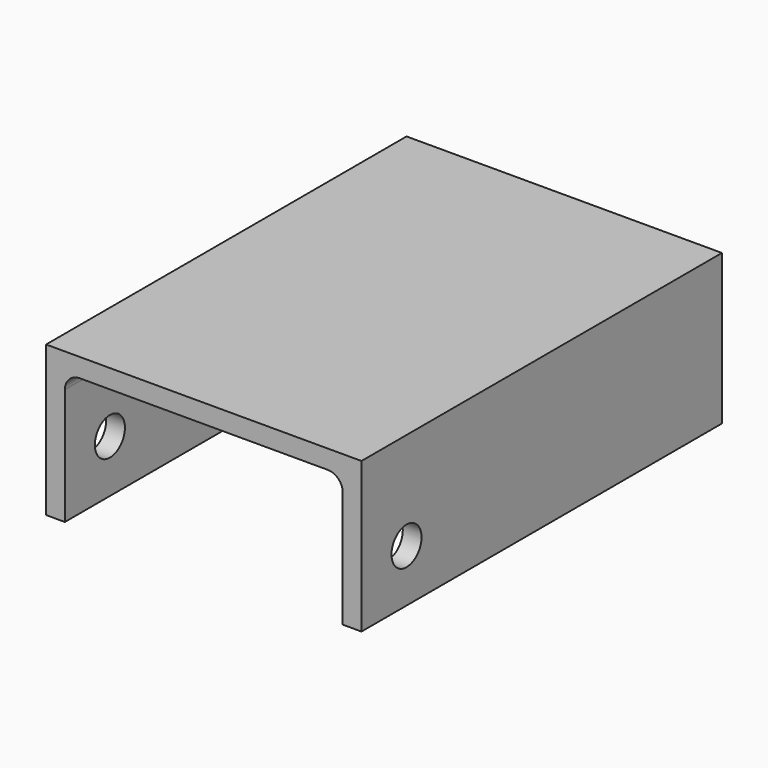
from build123d import *

# Parameters (mm, degrees)
F1_DEPTH = 152.4
F2_R     = 5.08
F3_R     = 6.35
F4_DEPTH = 106.681


with BuildPart() as f1:
    # F0 (on Front) → F1 (new body)
    with BuildSketch(Plane.XZ):
        Polygon((-46.99, -4.236735), (-46.99, 40.213265), (46.99, 40.213265), (46.99, -4.236735), (53.34, -4.236735), (53.34, 46.563265), (-53.34, 46.563265), (-53.34, -4.236735), align=None)
    extrude(amount=F1_DEPTH)

    # F2
    f2_edges = [f1.edges().sort_by_distance(p)[0] for p in [
        (-46.99, -76.2, 40.213265),
        (46.99, -76.2, 40.213265),
    ]]
    fillet(f2_edges, radius=F2_R)

    # F3 (on face) → F4 (cut, through all)
    with BuildSketch(Plane.YZ.offset(53.34)):
        with Locations((-133.35, 13.543265)):
            Circle(F3_R)
    extrude(amount=-F4_DEPTH, mode=Mode.SUBTRACT)


solid = f1.part
